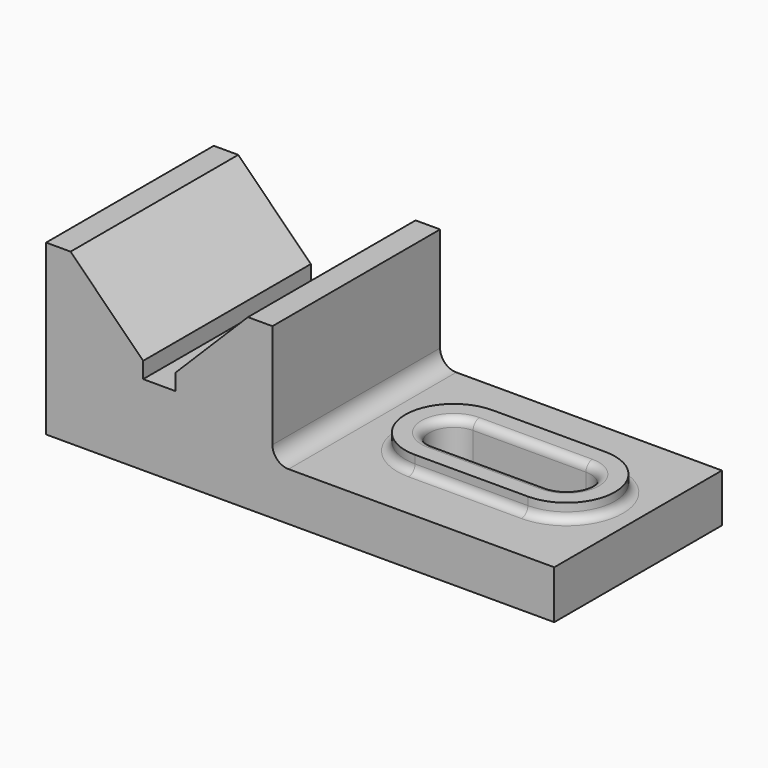
from build123d import *

# Parameters (mm, degrees)
F0_W     = 200.152
F0_H     = 82.55
F1_DEPTH = 66.548
F3_DEPTH = 82.551
F5_DEPTH = 82.551
F7_DEPTH = 6.35
F8_DEPTH = 19.051
F9_R     = 3.175


with BuildPart() as f1:
    # F0 (on Top) → F1 (new body)
    with BuildSketch(Plane.XY):
        with Locations((33.701574, -19.847578)):
            Rectangle(F0_W, F0_H)
    extrude(amount=F1_DEPTH)

    # F2 (on face) → F3 (cut, through all)
    with BuildSketch(Plane.XZ.offset(61.122578)):
        Polygon((13.127574, 66.548), (-56.722426, 66.548), (-28.147426, 37.973), (-28.147426, 31.623), (-15.447426, 31.623), (-15.447426, 37.973), align=None)
    extrude(amount=-F3_DEPTH, mode=Mode.SUBTRACT)

    # F4 (on face) → F5 (cut, through all)
    with BuildSketch(Plane.XZ.offset(61.122578)):
        with BuildLine():
            Line((29.129574, 19.05), (133.777574, 19.05))
            Line((133.777574, 19.05), (133.777574, 66.548))
            Line((133.777574, 66.548), (22.779574, 66.548))
            Line((22.779574, 66.548), (22.779574, 25.4))
            ThreePointArc((22.779574, 25.4), (24.639446, 20.909872), (29.129574, 19.05))
        make_face()
    extrude(amount=-F5_DEPTH, mode=Mode.SUBTRACT)

    # F6 (on face) → F7 (join)
    with BuildSketch(Plane.XY.offset(19.05)):
        with BuildLine():
            Line((61.169598, -38.897577), (105.619598, -38.897577))
            ThreePointArc((105.619598, -38.897577), (124.669598, -19.847577), (105.619598, -0.797577))
            Line((105.619598, -0.797577), (61.169598, -0.797577))
            ThreePointArc((61.169598, -0.797577), (42.119598, -19.847577), (61.169598, -38.897577))
        make_face()
        with BuildLine():
            ThreePointArc((105.619598, -10.322577), (115.144598, -19.847577), (105.619598, -29.372577))
            Line((105.619598, -29.372577), (61.169598, -29.372577))
            ThreePointArc((61.169598, -29.372577), (51.644598, -19.847577), (61.169598, -10.322577))
            Line((61.169598, -10.322577), (105.619598, -10.322577))
        make_face(mode=Mode.SUBTRACT)
    extrude(amount=F7_DEPTH)

    # F7_face (on face) → F8 (cut, through all)
    with BuildSketch(Plane(origin=(83.394598, -19.847577, 19.05), x_dir=(1, 0, 0), z_dir=(0, 0, 1))):
        with BuildLine():
            ThreePointArc((-22.225, 9.525), (-31.75, 0), (-22.225, -9.525))
            Line((-22.225, -9.525), (22.225, -9.525))
            ThreePointArc((22.225, -9.525), (31.75, 0), (22.225, 9.525))
            Line((22.225, 9.525), (-22.225, 9.525))
        make_face()
    extrude(amount=-F8_DEPTH, mode=Mode.SUBTRACT)

    # F9
    f9_edges = [f1.edges().sort_by_distance(p)[0] for p in [
        (83.394598, -38.897577, 19.05),
        (42.119598, -19.847577, 19.05),
        (124.669598, -19.847577, 19.05),
        (83.394598, -10.322577, 25.4),
    ]]
    fillet(f9_edges, radius=F9_R)


solid = f1.part
